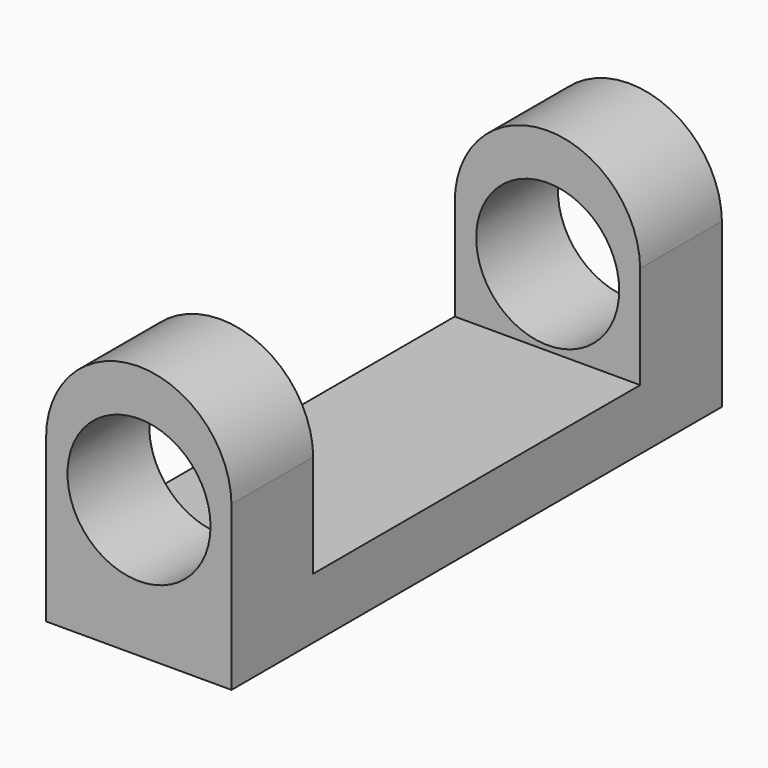
from build123d import *

# Parameters (mm, degrees)
F1_DEPTH = 30
F2_R     = 3.5
F3_DEPTH = 30.001
F4_W     = 20
F4_H     = 10.027466
F5_DEPTH = 9.075462


with BuildPart() as f1:
    # F0 (on Front) → F1 (new body)
    with BuildSketch(Plane.XZ):
        with BuildLine():
            Line((0, 7.925374), (0, 0))
            Line((0, 0), (9.074462, 0))
            Line((9.074462, 0), (9.074462, 8))
            ThreePointArc((9.074462, 8), (4.500224, 12.462759), (0, 7.925374))
        make_face()
    extrude(amount=F1_DEPTH)

    # F2 (on Front) → F3 (cut, through all)
    with BuildSketch(Plane.XZ):
        with Locations((4.548298, 6.713609)):
            Circle(F2_R)
    extrude(amount=F3_DEPTH, mode=Mode.SUBTRACT)

    # F4 (on Right) → F5 (cut, through all)
    with BuildSketch(Plane.YZ):
        with Locations((-15, 7.985694)):
            Rectangle(F4_W, F4_H)
    extrude(amount=F5_DEPTH, mode=Mode.SUBTRACT)


solid = f1.part
